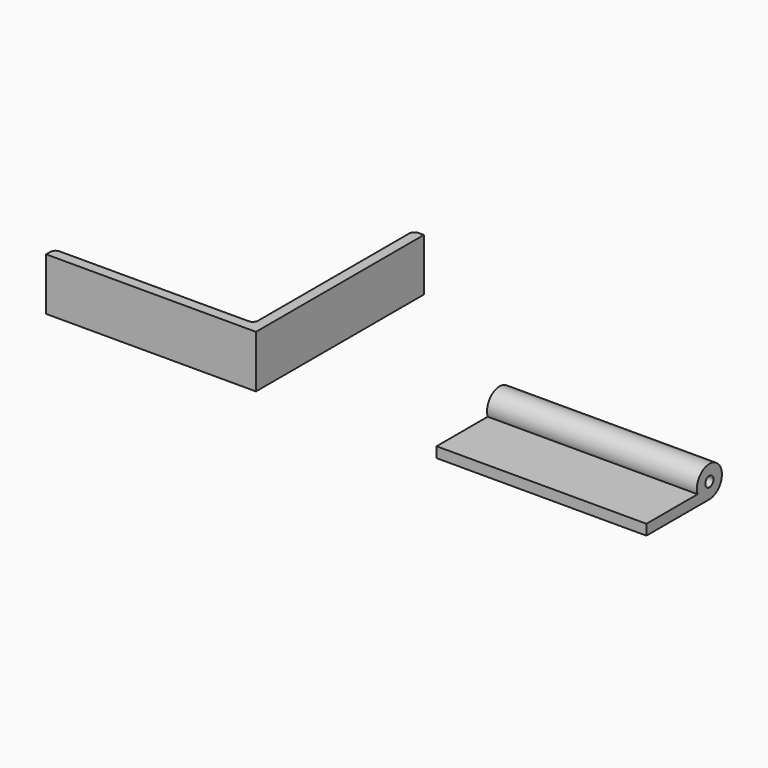
from build123d import *

# Parameters (mm, degrees)
F0_W     = 101.6
F0_H     = 38.1
F1_DEPTH = 5.08
F3_DEPTH = 101.6
F5_DEPTH = 25.4


with BuildPart() as f1:
    # F0 (on Top) → F1 (new body)
    with BuildSketch(Plane.XY):
        with Locations((50.8, 19.05)):
            Rectangle(F0_W, F0_H)
    extrude(amount=F1_DEPTH)

    # F2 (on face) → F3 (join)
    with BuildSketch(Plane.YZ.offset(101.6)):
        with BuildLine():
            Line((38.1, 5.08), (38.1, 0))
            ThreePointArc((38.1, 0), (43.449413, 2.215799), (45.665212, 7.565212))
            ThreePointArc((45.665212, 7.565212), (36.839786, 15.024722), (30.954641, 5.08))
            Line((30.954641, 5.08), (38.1, 5.08))
        make_face()
        with BuildLine():
            ThreePointArc((40.585212, 7.565212), (39.85731, 5.807902), (38.1, 5.08))
            ThreePointArc((38.1, 5.08), (36.34269, 9.322522), (40.585212, 7.565212))
        make_face(mode=Mode.SUBTRACT)
        with BuildLine():
            Line((38.1, 5.08), (38.1, 0))
            ThreePointArc((38.1, 0), (43.449413, 2.215799), (45.665212, 7.565212))
            ThreePointArc((45.665212, 7.565212), (36.839786, 15.024722), (30.954641, 5.08))
            Line((30.954641, 5.08), (38.1, 5.08))
        make_face()
        with BuildLine():
            ThreePointArc((40.585212, 7.565212), (39.85731, 5.807902), (38.1, 5.08))
            ThreePointArc((38.1, 5.08), (36.34269, 9.322522), (40.585212, 7.565212))
        make_face(mode=Mode.SUBTRACT)
    extrude(amount=-F3_DEPTH)


with BuildPart() as f5:
    # F4 (on Top) → F5 (new body)
    with BuildSketch(Plane.XY):
        with BuildLine():
            Line((-189.015545, 0), (-87.415545, 0))
            Line((-87.415545, 0), (-87.415545, 101.6))
            Line((-87.415545, 101.6), (-89.955545, 101.6))
            ThreePointArc((-89.955545, 101.6), (-91.751596, 100.856051), (-92.495545, 99.06))
            Line((-92.495545, 99.06), (-92.495545, 7.62))
            ThreePointArc((-92.495545, 7.62), (-93.239494, 5.823949), (-95.035545, 5.08))
            Line((-95.035545, 5.08), (-186.475545, 5.08))
            ThreePointArc((-186.475545, 5.08), (-188.271596, 4.336051), (-189.015545, 2.54))
            Line((-189.015545, 2.54), (-189.015545, 0))
        make_face()
    extrude(amount=F5_DEPTH)


solid = Compound([f1.part, f5.part])
